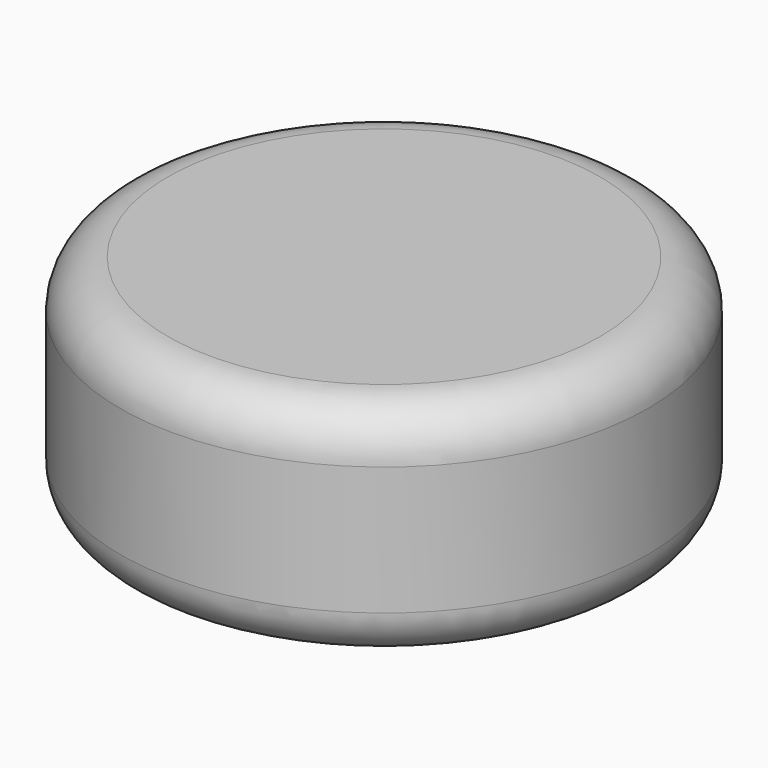
from build123d import *


with BuildPart() as f1:
    # F0 (on Front) → F1 (revolve)
    with BuildSketch(Plane.XZ):
        with BuildLine():
            Line((0, 26.84756), (0, 0))
            Line((0, 0), (18.926855, 9.378171))
            ThreePointArc((18.926855, 9.378171), (20.472643, 10.783186), (21.045284, 12.792068))
            Line((21.045284, 12.792068), (21.045284, 23.03756))
            ThreePointArc((21.045284, 23.03756), (19.929361, 25.731637), (17.235284, 26.84756))
            Line((17.235284, 26.84756), (0, 26.84756))
        make_face()
    revolve(axis=Axis((0, 0, 13.42378), (0, 0, -1)))


solid = f1.part
